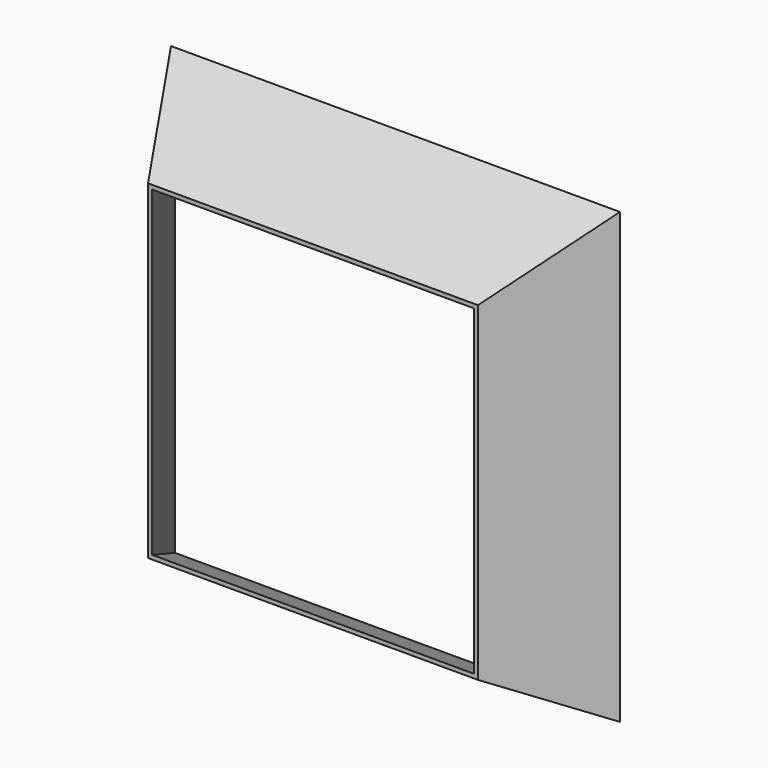
from build123d import *

# Parameters (mm, degrees)
F0_W     = 80
F0_H     = 80
F0_W_2   = 78
F0_H_2   = 78
F1_DEPTH = 25
F1_TAPER = -30
F2_DEPTH = 30
F2_TAPER = -30


with BuildPart() as f1:
    # F0 (on Front) → F1 (new body)
    with BuildSketch(Plane.XZ):
        with Locations((40, 40)):
            Rectangle(F0_W, F0_H)
        with Locations((40, 40)):
            Rectangle(F0_W_2, F0_H_2, mode=Mode.SUBTRACT)
        with Locations((40, 40)):
            Rectangle(F0_W_2, F0_H_2)
    extrude(amount=-F1_DEPTH, taper=F1_TAPER)

    # F0 (on Front) → F2 (cut)
    with BuildSketch(Plane.XZ):
        with Locations((40, 40)):
            Rectangle(F0_W_2, F0_H_2)
    extrude(amount=-F2_DEPTH, taper=F2_TAPER, mode=Mode.SUBTRACT)


solid = f1.part
